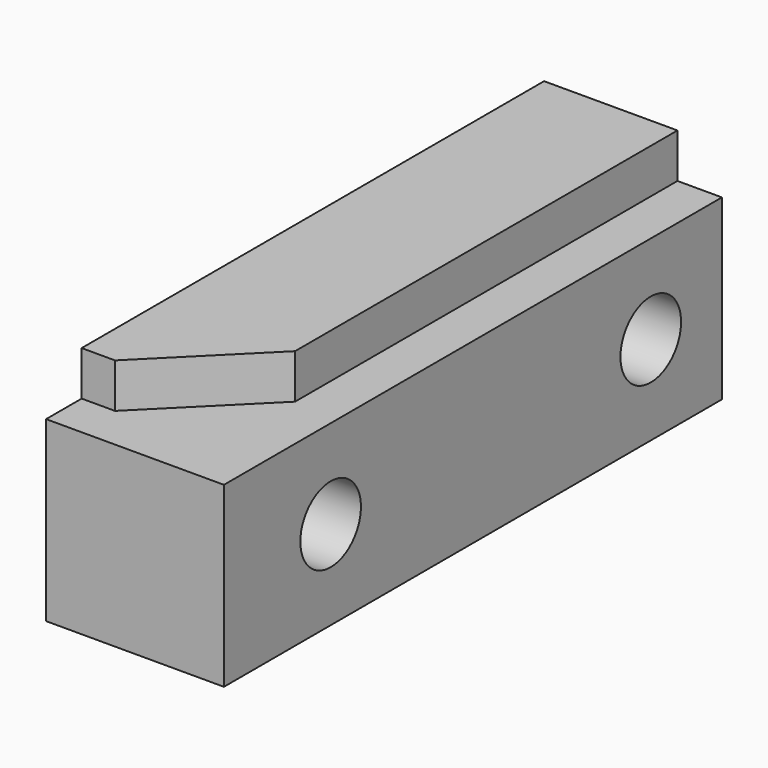
from build123d import *

# Parameters (mm, degrees)
F0_W     = 6.35
F0_H     = 22.225
F1_DEPTH = 6.35
F2_W     = 4.7625
F2_H     = 20.6375
F3_DEPTH = 1.5875
F4_R     = 1.35255
F5_DEPTH = 6.35
F6_SIZE  = 3.57124


with BuildPart() as f1:
    # F0 (on Top) → F1 (new body)
    with BuildSketch(Plane.XY):
        with Locations((3.175, -11.1125)):
            Rectangle(F0_W, F0_H)
    extrude(amount=F1_DEPTH)

    # F2 (on face) → F3 (join)
    with BuildSketch(Plane.XY.offset(6.35)):
        with Locations((2.38125, -10.31875)):
            Rectangle(F2_W, F2_H)
    extrude(amount=F3_DEPTH)

    # F4 (on face) → F5 (cut)
    with BuildSketch(Plane(origin=(0, 0, 0), x_dir=(0, -1, 0), z_dir=(-1, 0, 0))):
        with Locations((17.4625, 3.175)):
            Circle(F4_R)
        with Locations((3.175, 3.175)):
            Circle(F4_R)
    extrude(amount=-F5_DEPTH, mode=Mode.SUBTRACT)

    # F6
    f6_edges = [f1.edges().sort_by_distance(p)[0] for p in [
        (4.7625, -20.6375, 7.14375),
    ]]
    chamfer(f6_edges, length=F6_SIZE)


solid = f1.part
